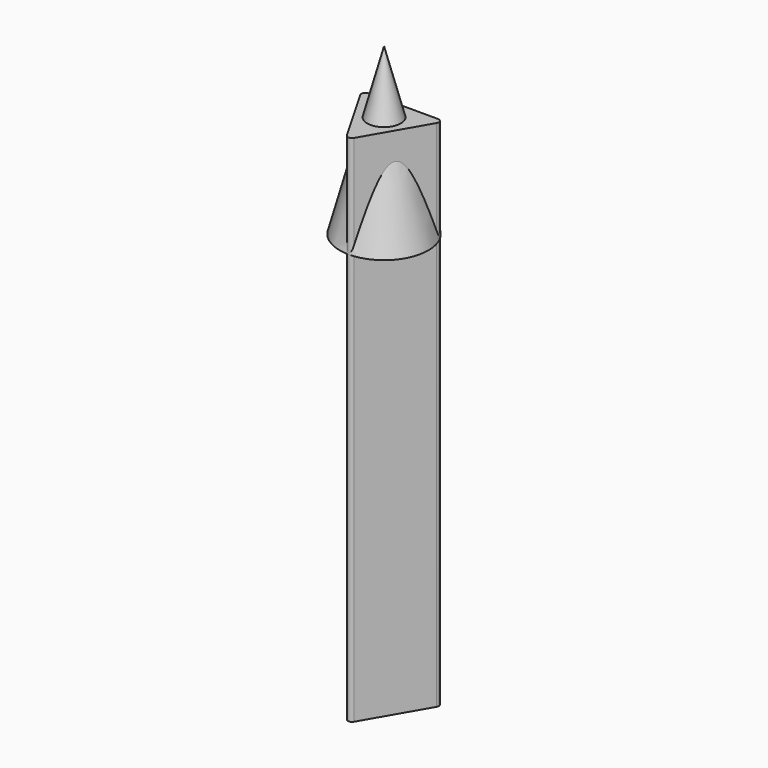
from build123d import *

# Parameters (mm, degrees)
F1_DEPTH = 635
F3_R     = 54.7671563766
F4_DEPTH = 508
F4_TAPER = 15


with BuildPart() as f1:
    # F0 (on Top) → F1 (new body)
    with BuildSketch(Plane.XY):
        with BuildLine():
            Line((4.3762073668, -51.8782042192), (47.1357396988, 22.1070420222))
            ThreePointArc((47.1357396988, 22.1070420222), (47.1380116892, 27.1870415141), (42.7397390731, 29.7290088615))
            Line((42.7397390731, 29.7290088615), (-42.7131298431, 29.7672269942))
            ThreePointArc((-42.7131298431, 29.7672269942), (-47.1136744495, 27.2291948497), (-47.1159464399, 22.1491953577))
            Line((-47.1159464399, 22.1491953577), (-4.4226098557, -51.8742690164))
            ThreePointArc((-4.4226098557, -51.8742690164), (-0.0243372396, -54.4162363638), (4.3762073668, -51.8782042192))
        make_face()
    extrude(amount=F1_DEPTH)

    # F3 (on offset) → F4 (join)
    with BuildSketch(Plane.XY.offset(508)):
        Circle(F3_R)
    extrude(amount=F4_DEPTH, taper=F4_TAPER)


solid = f1.part
